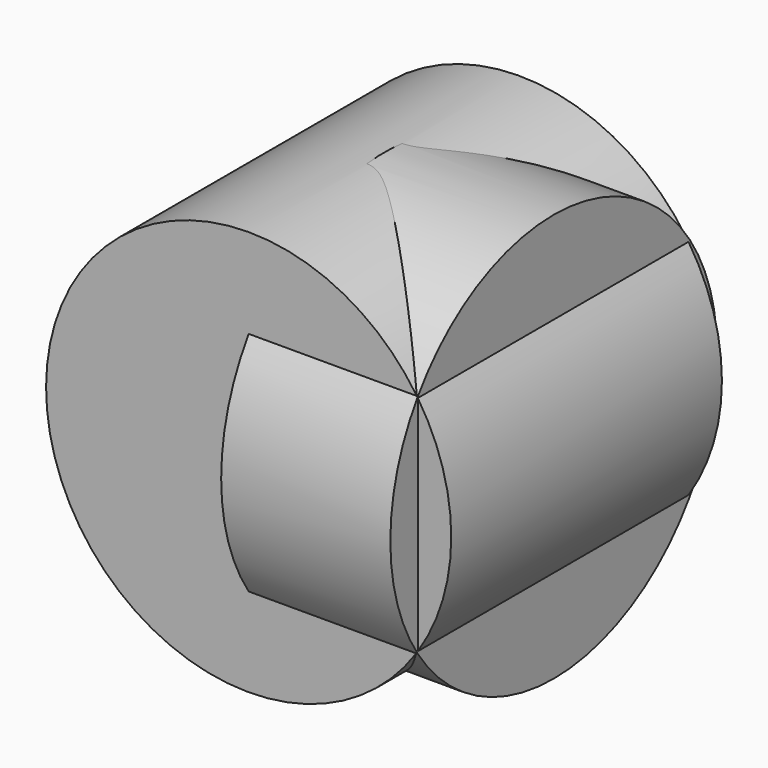
from build123d import *

# Parameters (mm, degrees)
F0_R      = 30.41715
F2_DEPTH  = 25.4
F2_FACE_R = 30.41715
F3_DEPTH  = 25.4
F1_R      = 30.664626
F4_DEPTH  = 25.4


with BuildPart() as f2:
    # F0 (on Front) → F2 (new body)
    with BuildSketch(Plane.XZ):
        Circle(F0_R)
    extrude(amount=F2_DEPTH)

    # F2_face (on face) → F3 (join)
    with BuildSketch(Plane(origin=(0, 0, 0), x_dir=(1, 0, 0), z_dir=(0, 1, 0))):
        Circle(F2_FACE_R)
    extrude(amount=F3_DEPTH)

    # F1 (on Right) → F4 (join)
    with BuildSketch(Plane.YZ):
        with Locations((0.104457, -0.068773)):
            Circle(F1_R)
    extrude(amount=F4_DEPTH)


solid = f2.part
